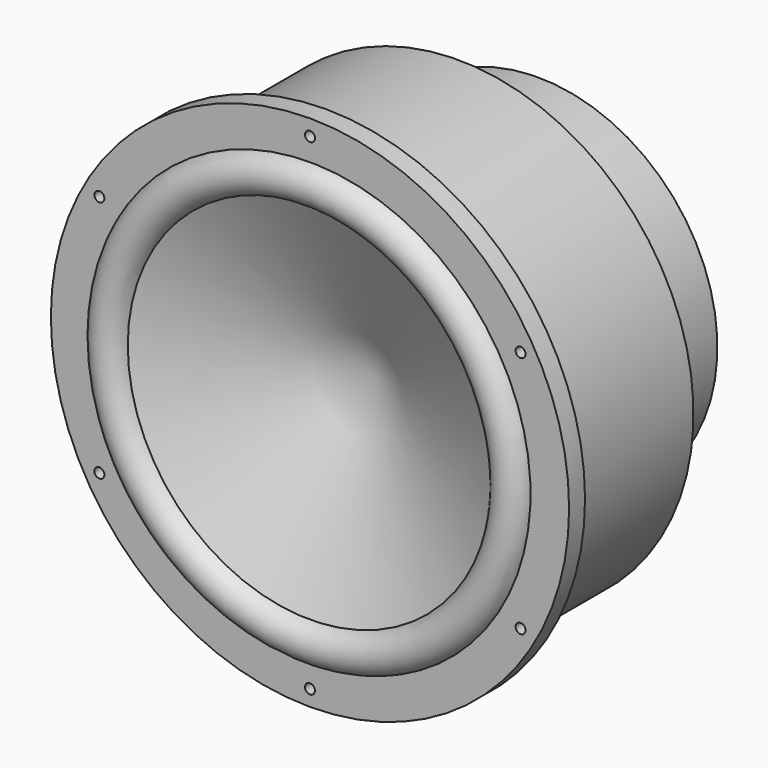
from build123d import *

# Parameters (mm, degrees)
F0_R      = 130
F1_DEPTH  = 10
F2_R      = 118
F3_DEPTH  = 133
F9_D      = 5
F10_R     = 118
F10_R_2   = 90
F11_DEPTH = 50


with BuildPart() as f1:
    # F0 (on Front) → F1 (new body)
    with BuildSketch(Plane.XZ):
        Circle(F0_R)
    extrude(amount=F1_DEPTH)

    # F2 (on face) → F3 (join)
    with BuildSketch(Plane(origin=(0, 0, 0), x_dir=(-1, 0, 0), z_dir=(0, 1, 0))):
        Circle(F2_R)
    extrude(amount=F3_DEPTH)

    # F4 (on Top) → F5 (revolve, cut)
    with BuildSketch(Plane.XY):
        Polygon((0, 0), (0, -40), (160, -40), (0, 30), align=None)
    revolve(axis=Axis((0, -20, 0), (0, 1, 0)), mode=Mode.SUBTRACT)

    # F6 (on Top) → F7 (revolve)
    with BuildSketch(Plane.XY):
        with BuildLine():
            Line((-91.428571, -10), (-110.647532, -10))
            ThreePointArc((-110.647532, -10), (-101.038052, -17.23271), (-91.428571, -10))
        make_face()
    revolve(axis=Axis((0, -10, 0), (0, 1, 0)))

    # F9 (through all)
    with Locations(Plane(origin=(0, 0, 0), x_dir=(-1, 0, 0), z_dir=(0, 1, 0))):
        with Locations((105.655099, 61), (105.655099, -61), (0, -122), (0, 122), (-105.655099, 61), (-105.655099, -61)):
            Hole(F9_D / 2)

    # F10 (on face) → F11 (cut)
    with BuildSketch(Plane(origin=(0, 133, 0), x_dir=(-1, 0, 0), z_dir=(0, 1, 0))):
        Circle(F10_R)
        Circle(F10_R_2, mode=Mode.SUBTRACT)
    extrude(amount=-F11_DEPTH, mode=Mode.SUBTRACT)


solid = f1.part
